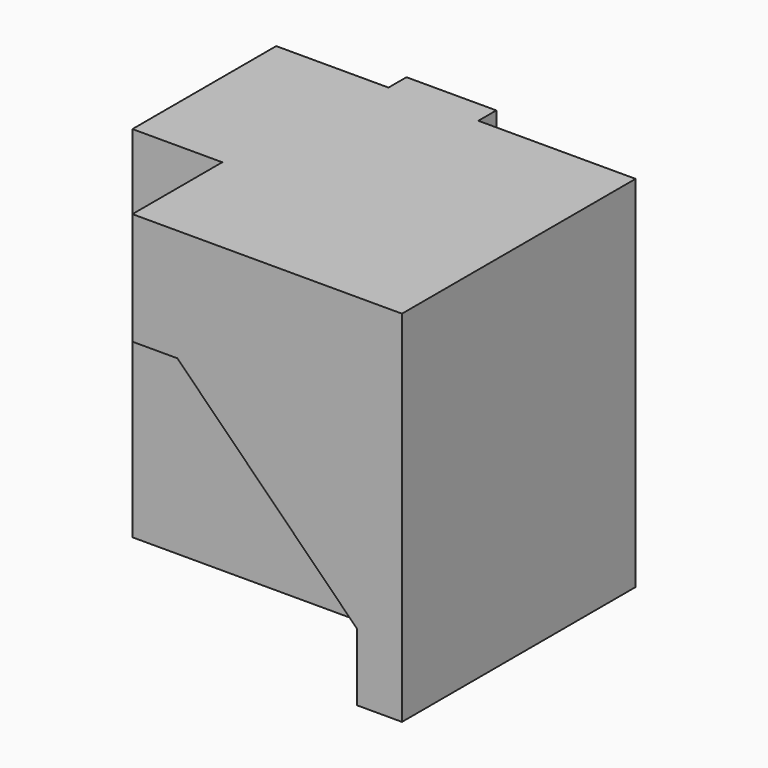
from build123d import *

# Parameters (mm, degrees)
F0_W     = 80
F0_H     = 80
F1_DEPTH = 45
F3_DEPTH = 25
F4_DEPTH = 25
F5_W     = 35
F5_H     = 80
F5_W_2   = 25
F6_DEPTH = 5


with BuildPart() as f1:
    # F0 (on Front) → F1 (new body)
    with BuildSketch(Plane.XZ):
        Rectangle(F0_W, F0_H)
    extrude(amount=F1_DEPTH)

    # F2 (on face) → F3 (join)
    with BuildSketch(Plane.XZ.offset(45)):
        Polygon((30, -25), (30, -40), (40, -40), (40, 15), (-10, 15), align=None)
    extrude(amount=F3_DEPTH)

    # F2 (on face) → F4 (join)
    with BuildSketch(Plane.XZ.offset(45)):
        Polygon((-20, 15), (-10, 15), (40, 15), (40, 40), (-20, 40), align=None)
    extrude(amount=F4_DEPTH)

    # F5 (on face) → F6 (cut)
    with BuildSketch(Plane(origin=(0, 0, 0), x_dir=(-1, 0, 0), z_dir=(0, 1, 0))):
        with Locations((-22.5, 0)):
            Rectangle(F5_W, F5_H)
        with Locations((27.5, 0)):
            Rectangle(F5_W_2, F5_H)
    extrude(amount=-F6_DEPTH, mode=Mode.SUBTRACT)


solid = f1.part
